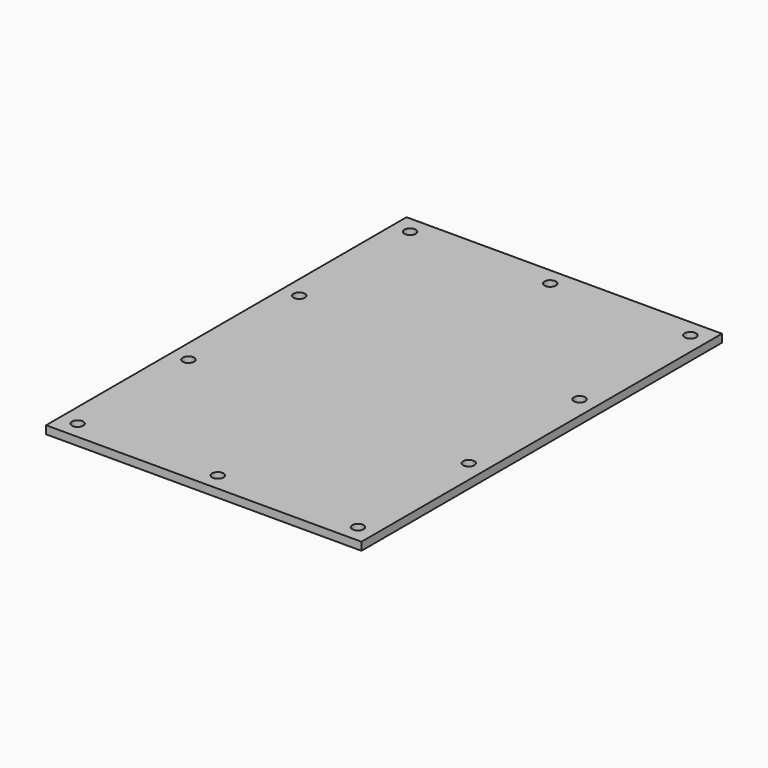
from build123d import *

# Parameters (mm, degrees)
F0_W     = 63
F0_H     = 90
F1_DEPTH = 1.6
F2_R     = 1.1303
F3_DEPTH = 25


with BuildPart() as f1:
    # F0 (on Top) → F1 (new body)
    with BuildSketch(Plane.XY):
        Rectangle(F0_W, F0_H)
    extrude(amount=F1_DEPTH)

    # F2 (on face) → F3 (cut)
    with BuildSketch(Plane.XY.offset(1.6)):
        with Locations((-28, 41.5)):
            Circle(F2_R)
        with Locations((0, 41.5)):
            Circle(F2_R)
        with Locations((28, 41.5)):
            Circle(F2_R)
        with Locations((28, 13.833333)):
            Circle(F2_R)
        with Locations((28, -13.833333)):
            Circle(F2_R)
        with Locations((0, -41.5)):
            Circle(F2_R)
        with Locations((-28, -41.5)):
            Circle(F2_R)
        with Locations((-28, -13.833333)):
            Circle(F2_R)
        with Locations((-28, 13.833333)):
            Circle(F2_R)
        with Locations((28, -41.5)):
            Circle(F2_R)
    extrude(amount=-F3_DEPTH, mode=Mode.SUBTRACT)


solid = f1.part
